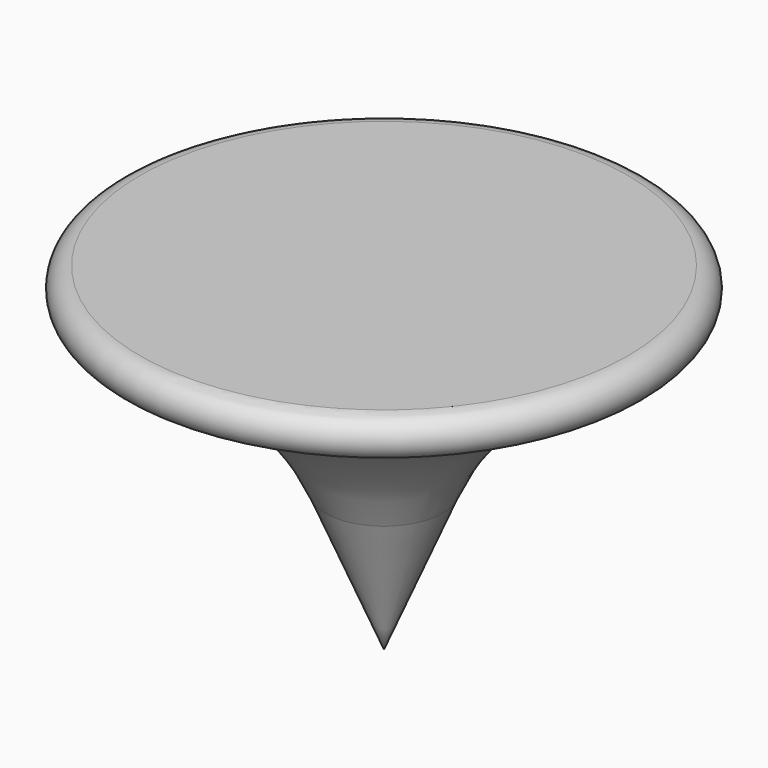
from build123d import *

# Parameters (mm, degrees)
F2_R = 0.682367
F3_R = 8.749241


with BuildPart() as f1:
    # F0 (on Front) → F1 (revolve)
    with BuildSketch(Plane.XZ):
        Polygon((0, 11.625385), (0, 0), (3.367648, 7.997596), (11.65795, 11.625385), align=None)
    revolve(axis=Axis((0, 0, 5.812692), (0, 0, -1)))

    # F2
    f2_edges = [f1.edges().sort_by_distance(p)[0] for p in [
        (-11.65795, 0, 11.625385),
    ]]
    fillet(f2_edges, radius=F2_R)

    # F3
    f3_edges = [f1.edges().sort_by_distance(p)[0] for p in [
        (-3.367648, 0, 7.997596),
    ]]
    fillet(f3_edges, radius=F3_R)


solid = f1.part
